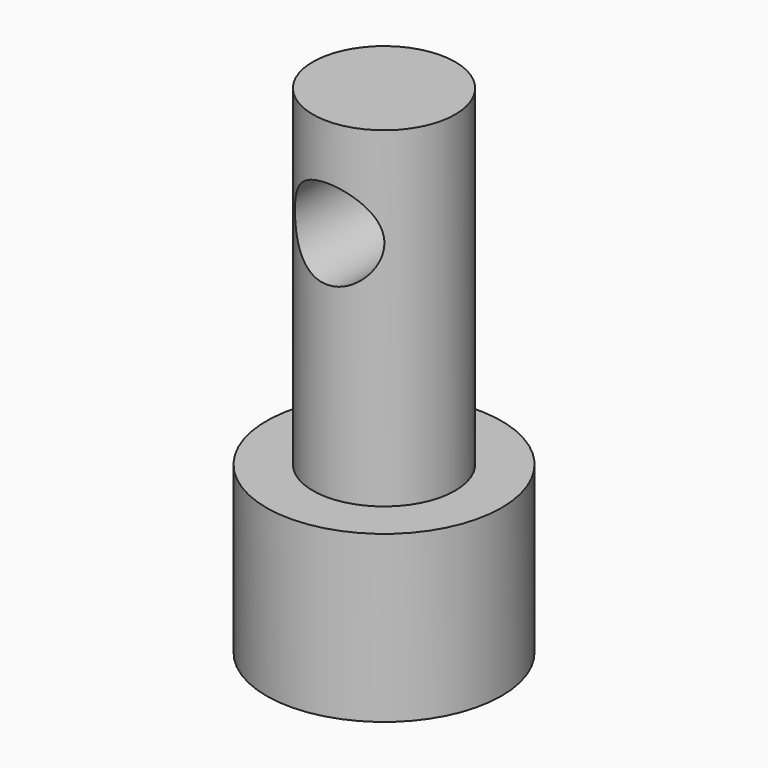
from build123d import *

# Parameters (mm, degrees)
F0_R          = 3.55
F1_DEPTH      = 5
F2_R          = 2.15
F3_DEPTH      = 10
F4_R          = 1.35
F5_DEPTH      = 2.15
F5_DEPTH_BACK = 2.15


with BuildPart() as f1:
    # F0 (on Top) → F1 (new body)
    with BuildSketch(Plane.XY):
        Circle(F0_R)
    extrude(amount=F1_DEPTH)

    # F2 (on face) → F3 (join)
    with BuildSketch(Plane.XY.offset(5)):
        Circle(F2_R)
    extrude(amount=F3_DEPTH)

    # F4 (on Front) → F5 (cut, two sides)
    with BuildSketch(Plane.XZ) as f5_sk:
        with Locations((0, 12)):
            Circle(F4_R)
    extrude(amount=-F5_DEPTH, mode=Mode.SUBTRACT)
    extrude(f5_sk.sketch, amount=F5_DEPTH_BACK, mode=Mode.SUBTRACT)


solid = f1.part
